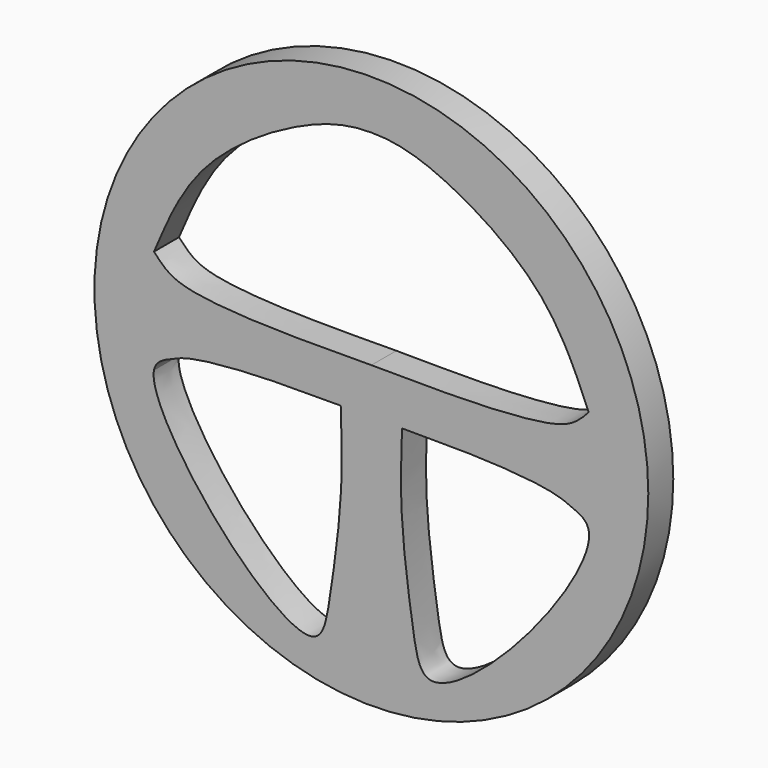
from build123d import *

# Parameters (mm, degrees)
F0_R     = 19.7003752355
F2_DEPTH = 2.22259
F3_DEPTH = 50.8


with BuildPart() as f2:
    # F0 (on Front) → F2 (new body)
    with BuildSketch(Plane.XZ):
        Circle(F0_R)
    extrude(amount=F2_DEPTH)

    # F1 (on Front) → F3 (cut)
    with BuildSketch(Plane.XZ):
        with BuildLine():
            add(Edge.make_bspline(
                [(-15.4631529003, 3.7106473465), (-14.5552424255, 5.8376593389), (-12.6612678067, 10.4135707044), (-5.4146128635, 15.1931010605), (-1.6903024735, 16.2212316653), (0, 16.1956194788)],
                knots=[0, 0, 0, 0, 0.3388400409, 0.7060250476, 1, 1, 1, 1], degree=3))
            add(Edge.make_bspline(
                [(-15.4631529003, 3.7106473465), (-15.0705248118, 3.2824982893), (-14.1462936866, 2.2746521968), (-10.6562267886, 1.7786678876), (-6.2118109856, 1.5820085187), (-2.1790945776, 1.6130470288), (0, 1.6298188129)],
                knots=[0, 0, 0, 0, 0.1721615526, 0.4052615442, 0.6786306765, 1, 1, 1, 1], degree=3))
            add(Edge.make_bspline(
                [(15.4631529003, 3.7106473465), (15.0705248118, 3.2824982893), (14.1462936866, 2.2746521968), (10.6562267886, 1.7786678876), (6.2118109856, 1.5820085187), (2.1790945776, 1.6130470288), (0, 1.6298188129)],
                knots=[0, 0, 0, 0, 0.1721615526, 0.4052615442, 0.6786306765, 1, 1, 1, 1], degree=3))
            add(Edge.make_bspline(
                [(15.4631529003, 3.7106473465), (14.5552424255, 5.8376593389), (12.6612678067, 10.4135707044), (5.4146128635, 15.1931010605), (1.6903024735, 16.2212316653), (0, 16.1956194788)],
                knots=[0, 0, 0, 0, 0.3388400409, 0.7060250476, 1, 1, 1, 1], degree=3))
        make_face()
        with BuildLine():
            add(Edge.make_bspline(
                [(-15.4631529003, -3.7106473465), (-15.3319688501, -3.0453276363), (-14.7039514029, -2.7999797142), (-14.0759339556, -2.554631792)],
                knots=[0.9038743853, 0.9038743853, 0.9038743853, 0.9038743853, 1, 1, 1, 1], degree=3))
            add(Edge.make_bspline(
                [(-15.4631529003, -3.7106473465), (-15.0705248118, -3.2824982893), (-14.6778967233, -2.8543492322), (-14.0759339556, -2.554631792)],
                knots=[0, 0, 0, 0, 0.1721615526, 0.1721615526, 0.1721615526, 0.1721615526], degree=3))
        make_face()
        with BuildLine():
            add(Edge.make_bspline(
                [(14.0759339556, -2.554631792), (13.2608999715, -2.1488261302), (10.6562267886, -1.7786678876), (6.7893336665, -1.6075631137), (3.6104419525, -1.6074565323), (2.1790336875, -1.6148637863)],
                knots=[0.1721615526, 0.1721615526, 0.1721615526, 0.1721615526, 0.4052615442, 0.6786306765, 0.8924278239, 0.8924278239, 0.8924278239, 0.8924278239], degree=3))
            add(Edge.make_bspline(
                [(2.1790336877, -1.6148637864), (2.1177120023, -3.4445059013), (1.9897349933, -7.2668640171), (2.8961871372, -13.6115071942), (3.6903489801, -18.392541145), (11.2728278149, -12.4760903279), (15.7663256662, -5.2482337856), (15.4631529003, -3.7106473465)],
                knots=[5.64935e-05, 5.64935e-05, 5.64935e-05, 5.64935e-05, 0.170738923, 0.3566207898, 0.4791636808, 0.6817233812, 0.9038743853, 0.9038743853, 0.9038743853, 0.9038743853], degree=3))
            add(Edge.make_bspline(
                [(15.4631529003, -3.7106473465), (15.0705248118, -3.2824982893), (14.6778967233, -2.8543492322), (14.0759339556, -2.554631792)],
                knots=[0, 0, 0, 0, 0.1721615526, 0.1721615526, 0.1721615526, 0.1721615526], degree=3))
        make_face()
        with BuildLine():
            add(Edge.make_bspline(
                [(-15.4631529003, -3.7106473465), (-15.0705248118, -3.2824982893), (-14.6778967233, -2.8543492322), (-14.0759339556, -2.554631792)],
                knots=[0, 0, 0, 0, 0.1721615526, 0.1721615526, 0.1721615526, 0.1721615526], degree=3))
            add(Edge.make_bspline(
                [(-2.1790336877, -1.6148637864), (-2.1177120023, -3.4445059013), (-1.9897349933, -7.2668640171), (-2.8961871372, -13.6115071942), (-3.6903489801, -18.392541145), (-11.2728278149, -12.4760903279), (-15.7663256662, -5.2482337856), (-15.4631529003, -3.7106473465)],
                knots=[5.64935e-05, 5.64935e-05, 5.64935e-05, 5.64935e-05, 0.170738923, 0.3566207898, 0.4791636808, 0.6817233812, 0.9038743853, 0.9038743853, 0.9038743853, 0.9038743853], degree=3))
            add(Edge.make_bspline(
                [(-14.0759339556, -2.554631792), (-13.2608999715, -2.1488261302), (-10.6562267886, -1.7786678876), (-6.7893336665, -1.6075631137), (-3.6104419525, -1.6074565323), (-2.1790336875, -1.6148637863)],
                knots=[0.1721615526, 0.1721615526, 0.1721615526, 0.1721615526, 0.4052615442, 0.6786306765, 0.8924278239, 0.8924278239, 0.8924278239, 0.8924278239], degree=3))
        make_face()
        with BuildLine():
            add(Edge.make_bspline(
                [(15.4631529003, -3.7106473465), (15.0705248118, -3.2824982893), (14.6778967233, -2.8543492322), (14.0759339556, -2.554631792)],
                knots=[0, 0, 0, 0, 0.1721615526, 0.1721615526, 0.1721615526, 0.1721615526], degree=3))
            add(Edge.make_bspline(
                [(15.4631529003, -3.7106473465), (15.3319688501, -3.0453276363), (14.7039514029, -2.7999797142), (14.0759339556, -2.554631792)],
                knots=[0.9038743853, 0.9038743853, 0.9038743853, 0.9038743853, 1, 1, 1, 1], degree=3))
        make_face()
    extrude(amount=F3_DEPTH, mode=Mode.SUBTRACT)


solid = f2.part
